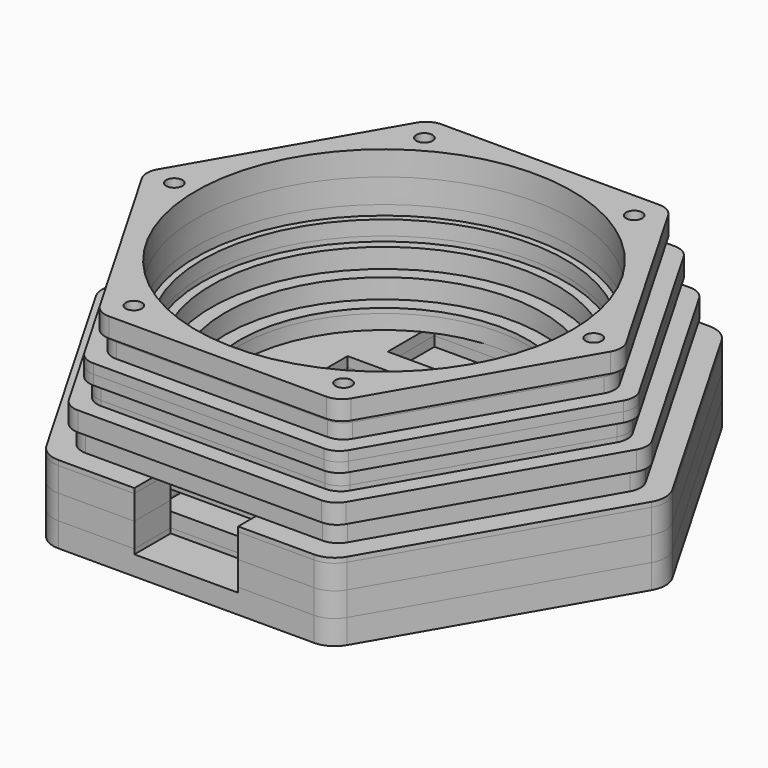
from build123d import *

# Parameters (mm, degrees)
BOX_BOTTOM_HALF_3_W     = 88.762396
BOX_BOTTOM_HALF_3_H     = 78.210236
BOX_BOTTOM_HALF_3_DEPTH = 4.75
BOX_BOTTOM_HALF_1_W     = 88.762396
BOX_BOTTOM_HALF_1_H     = 78.210236
BOX_BOTTOM_HALF_1_DEPTH = 8.5
BOX_BOTTOM_HALF_0_W     = 88.762396
BOX_BOTTOM_HALF_0_H     = 78.210236
BOX_BOTTOM_HALF_0_DEPTH = 16
PAD_DEPTH               = 9
SKETCH001_W             = 26.1
SKETCH001_H             = 34.4
POCKET_DEPTH            = 3
SKETCH002_R             = 22.22
PAD001_DEPTH            = 3
SKETCH003_R             = 24.44
PAD002_DEPTH            = 3
SKETCH004_R             = 26.6
PAD003_DEPTH            = 3
SKETCH005_R             = 28
PAD004_DEPTH            = 3
SKETCH006_R             = 29
PAD005_DEPTH            = 3
SKETCH007_R             = 29
PAD006_DEPTH            = 3
SKETCH008_R             = 29
PAD007_DEPTH            = 3
SKETCH009_W             = 17
SKETCH009_H             = 24
POCKET001_DEPTH         = 3
SKETCH010_W             = 16
SKETCH010_H             = 9
POCKET002_DEPTH         = 7
SKETCH011_W             = 20
SKETCH011_H             = 9
POCKET003_DEPTH         = 3
SKETCH012_R             = 1.25
POCKET004_DEPTH         = 270.433943
POLARPATTERN_COUNT      = 6
SKETCH013_W             = 3
SKETCH013_H             = 38
POCKET005_DEPTH         = 3
SKETCH014_W             = 3
SKETCH014_H             = 6
POCKET006_DEPTH         = 6
SKETCH015_W             = 10.05
SKETCH015_H             = 6
POCKET007_DEPTH         = 3
FILLET_R                = 4
FILLET001_R             = 3
FILLET002_R             = 3
FILLET003_R             = 3
FILLET004_R             = 3
BOX_BOTTOM_HALF_4_W     = 88.762396
BOX_BOTTOM_HALF_4_H     = 78.210236
BOX_BOTTOM_HALF_4_DEPTH = 4.75
BOX_BOTTOM_HALF_5_W     = 83.071797
BOX_BOTTOM_HALF_5_H     = 73.014083
BOX_BOTTOM_HALF_5_DEPTH = 4.75
BOX_BOTTOM_HALF_2_W     = 83.071797
BOX_BOTTOM_HALF_2_H     = 73.014083
BOX_BOTTOM_HALF_2_DEPTH = 8.5
BOX_BOTTOM_HALF_6_W     = 79.071797
BOX_BOTTOM_HALF_6_H     = 69.549981
BOX_BOTTOM_HALF_6_DEPTH = 4.75


with BuildPart() as box_bottom_half_3_body:
    # box_bottom_half_3 → box_bottom_half_3 (new body)
    with BuildSketch(Plane(origin=(-44.381198, -39.105118, -1), x_dir=(1, 0, 0), z_dir=(0, 0, 1))):
        with Locations((44.381198, 39.105118)):
            Rectangle(BOX_BOTTOM_HALF_3_W, BOX_BOTTOM_HALF_3_H)
    extrude(amount=BOX_BOTTOM_HALF_3_DEPTH)


with BuildPart() as box_bottom_half_1_body:
    # box_bottom_half_1 → box_bottom_half_1 (new body)
    with BuildSketch(Plane(origin=(-44.381198, -39.105118, -1), x_dir=(1, 0, 0), z_dir=(0, 0, 1))):
        with Locations((44.381198, 39.105118)):
            Rectangle(BOX_BOTTOM_HALF_1_W, BOX_BOTTOM_HALF_1_H)
    extrude(amount=BOX_BOTTOM_HALF_1_DEPTH)


with BuildPart() as box_bottom_half_0_body:
    # box_bottom_half_0 → box_bottom_half_0 (new body)
    with BuildSketch(Plane(origin=(-44.381198, -39.105118, -1), x_dir=(1, 0, 0), z_dir=(0, 0, 1))):
        with Locations((44.381198, 39.105118)):
            Rectangle(BOX_BOTTOM_HALF_0_W, BOX_BOTTOM_HALF_0_H)
    extrude(amount=BOX_BOTTOM_HALF_0_DEPTH)


with BuildPart() as body:
    # Sketch → Pad (new body)
    with BuildSketch(Plane.XY):
        Polygon((44, 0), (22, 38.105118), (-22, 38.105118), (-44, 0), (-22, -38.105118), (22, -38.105118), align=None)
    extrude(amount=PAD_DEPTH)

    # Sketch001 (on Face8 of Pad) → Pocket (cut)
    with BuildSketch(Plane.XY.offset(9)):
        with Locations((0, -13.905118)):
            Rectangle(SKETCH001_W, SKETCH001_H)
    extrude(amount=-POCKET_DEPTH, mode=Mode.SUBTRACT)

    # Sketch002 (on Face5 of Pocket) → Pad001 (join)
    with BuildSketch(Plane.XY.offset(9)):
        Polygon((22, 38.105118), (-22, 38.105118), (-44, 0), (-22, -38.105118), (22, -38.105118), (44, 0), align=None)
        Circle(SKETCH002_R, mode=Mode.SUBTRACT)
    extrude(amount=PAD001_DEPTH)

    # Sketch003 (on Face14 of Pad001) → Pad002 (join)
    with BuildSketch(Plane.XY.offset(12)):
        Polygon((40, 0), (20, 34.641016), (-20, 34.641016), (-40, 0), (-20, -34.641016), (20, -34.641016), align=None)
        Circle(SKETCH003_R, mode=Mode.SUBTRACT)
    extrude(amount=PAD002_DEPTH)

    # Sketch004 (on Face21 of Pad002) → Pad003 (join)
    with BuildSketch(Plane.XY.offset(15)):
        Polygon((41, 0), (20.5, 35.507042), (-20.5, 35.507042), (-41, 0), (-20.5, -35.507042), (20.5, -35.507042), align=None)
        Circle(SKETCH004_R, mode=Mode.SUBTRACT)
    extrude(amount=PAD003_DEPTH)

    # Sketch005 (on Face28 of Pad003) → Pad004 (join)
    with BuildSketch(Plane.XY.offset(18)):
        Polygon((19, 32.908965), (-19, 32.908965), (-38, 0), (-19, -32.908965), (19, -32.908965), (38, 0), align=None)
        Circle(SKETCH005_R, mode=Mode.SUBTRACT)
    extrude(amount=PAD004_DEPTH)

    # Sketch006 (on Face35 of Pad004) → Pad005 (join)
    with BuildSketch(Plane.XY.offset(21)):
        Polygon((39, 0), (19.5, 33.774991), (-19.5, 33.774991), (-39, 0), (-19.5, -33.774991), (19.5, -33.774991), align=None)
        Circle(SKETCH006_R, mode=Mode.SUBTRACT)
    extrude(amount=PAD005_DEPTH)

    # Sketch007 (on Face42 of Pad005) → Pad006 (join)
    with BuildSketch(Plane.XY.offset(24)):
        Polygon((36, 0), (18, 31.176915), (-18, 31.176915), (-36, 0), (-18, -31.176915), (18, -31.176915), align=None)
        Circle(SKETCH007_R, mode=Mode.SUBTRACT)
    extrude(amount=PAD006_DEPTH)

    # Sketch008 (on Face49 of Pad006) → Pad007 (join)
    with BuildSketch(Plane.XY.offset(27)):
        Polygon((37, 0), (18.5, 32.04294), (-18.5, 32.04294), (-37, 0), (-18.5, -32.04294), (18.5, -32.04294), align=None)
        Circle(SKETCH008_R, mode=Mode.SUBTRACT)
    extrude(amount=PAD007_DEPTH)

    # Sketch009 (on Face74 of Pad007) → Pocket001 (cut)
    with BuildSketch(Plane.XY.offset(6)):
        with Locations((0, -8.705118)):
            Rectangle(SKETCH009_W, SKETCH009_H)
    extrude(amount=-POCKET001_DEPTH, mode=Mode.SUBTRACT)

    # Sketch010 (on Face12 of Pocket001) → Pocket002 (cut)
    with BuildSketch(Plane.XZ.offset(38.105118)):
        with Locations((0, 7.5)):
            Rectangle(SKETCH010_W, SKETCH010_H)
    extrude(amount=-POCKET002_DEPTH, mode=Mode.SUBTRACT)

    # Sketch011 (on Face40 of Pocket002) → Pocket003 (cut)
    with BuildSketch(Plane.XY.offset(9)):
        with Locations((0, 17.72)):
            Rectangle(SKETCH011_W, SKETCH011_H)
    extrude(amount=-POCKET003_DEPTH, mode=Mode.SUBTRACT)

    # Sketch012 (on Face93 of Pocket003) → Pocket004 (cut, through all)
    with BuildSketch(Plane.XY.offset(30)):
        with Locations((-32.33, 0)):
            Circle(SKETCH012_R)
    pocket004 = extrude(amount=-POCKET004_DEPTH, mode=Mode.SUBTRACT)

    # PolarPattern: Pocket004 ×6 about axis
    polarpattern_axis = Axis((0, 0, 30), (0, 0, 1))
    for i in range(1, POLARPATTERN_COUNT):
        add(pocket004.rotate(polarpattern_axis, i * 360 / POLARPATTERN_COUNT), mode=Mode.SUBTRACT)

    # Sketch013 (on Face45 of PolarPattern) → Pocket005 (cut)
    with BuildSketch(Plane.XY.offset(6)):
        with Locations((-11.55, -12.105118)):
            Rectangle(SKETCH013_W, SKETCH013_H)
    extrude(amount=-POCKET005_DEPTH, mode=Mode.SUBTRACT)

    # Sketch014 (on Face58 of Pocket005) → Pocket006 (cut)
    with BuildSketch(Plane.XY.offset(9)):
        with Locations((-11.55, 6.294882)):
            Rectangle(SKETCH014_W, SKETCH014_H)
    extrude(amount=-POCKET006_DEPTH, mode=Mode.SUBTRACT)

    # Sketch015 (on Face58 of Pocket006) → Pocket007 (cut)
    with BuildSketch(Plane.XY.offset(9)):
        with Locations((-5.025, 6.294882)):
            Rectangle(SKETCH015_W, SKETCH015_H)
    extrude(amount=-POCKET007_DEPTH, mode=Mode.SUBTRACT)

    # Fillet
    fillet_edges = [body.edges().sort_by_distance(p)[0] for p in [
        (22, -38.105118, 4.5),
        (44, 0, 4.5),
        (22, 38.105118, 4.5),
        (-22, 38.105118, 4.5),
        (-44, 0, 4.5),
        (-22, -38.105118, 4.5),
    ]]
    fillet(fillet_edges, radius=FILLET_R)

    # Fillet001
    fillet001_edges = [body.edges().sort_by_distance(p)[0] for p in [
        (20.5, -35.507042, 16.5),
        (41, 0, 16.5),
        (20.5, 35.507042, 16.5),
        (-20.5, 35.507042, 16.5),
        (-41, 0, 16.5),
        (-20.5, -35.507042, 16.5),
    ]]
    fillet(fillet001_edges, radius=FILLET001_R)

    # Fillet002
    fillet002_edges = [body.edges().sort_by_distance(p)[0] for p in [
        (19.5, -33.774991, 22.5),
        (-19.5, -33.774991, 22.5),
        (-39, 0, 22.5),
        (-19.5, 33.774991, 22.5),
        (19.5, 33.774991, 22.5),
        (39, 0, 22.5),
    ]]
    fillet(fillet002_edges, radius=FILLET002_R)

    # Fillet003
    fillet003_edges = [body.edges().sort_by_distance(p)[0] for p in [
        (-18.5, -32.04294, 28.5),
        (18.5, -32.04294, 28.5),
        (37, 0, 28.5),
        (-37, 0, 28.5),
        (18.5, 32.04294, 28.5),
        (-18.5, 32.04294, 28.5),
    ]]
    fillet(fillet003_edges, radius=FILLET003_R)

    # Fillet004
    fillet004_edges = [body.edges().sort_by_distance(p)[0] for p in [
        (-20, -34.641016, 13.5),
        (20, -34.641016, 13.5),
        (40, 0, 13.5),
        (-40, 0, 13.5),
        (-38, 0, 19.5),
        (-19, -32.908965, 19.5),
        (19, -32.908965, 19.5),
        (38, 0, 19.5),
        (36, 0, 25.5),
        (18, -31.176915, 25.5),
        (-18, -31.176915, 25.5),
        (-36, 0, 25.5),
        (18, 31.176915, 25.5),
        (-18, 31.176915, 25.5),
        (-19, 32.908965, 19.5),
        (-20, 34.641016, 13.5),
        (20, 34.641016, 13.5),
        (19, 32.908965, 19.5),
    ]]
    fillet(fillet004_edges, radius=FILLET004_R)


with BuildPart() as bottom_half_0_body:
    # bottom_half_0 base: copy of Body
    add(body.part)

    # bottom_half_0: intersect box_bottom_half_0 body
    add(box_bottom_half_0_body.part, mode=Mode.INTERSECT)


with BuildPart() as bottom_half_1_body:
    # bottom_half_1 base: copy of bottom_half_0 body
    add(bottom_half_0_body.part)

    # bottom_half_1: intersect box_bottom_half_1 body
    add(box_bottom_half_1_body.part, mode=Mode.INTERSECT)


with BuildPart() as bottom_half_3_body:
    # bottom_half_3 base: copy of bottom_half_1 body
    add(bottom_half_1_body.part)

    # bottom_half_3: intersect box_bottom_half_3 body
    add(box_bottom_half_3_body.part, mode=Mode.INTERSECT)


with BuildPart() as top_half_3_body:
    # top_half_3 base: copy of bottom_half_1 body
    add(bottom_half_1_body.part)

    # top_half_3: cut box_bottom_half_3 body
    add(box_bottom_half_3_body.part, mode=Mode.SUBTRACT)


with BuildPart() as box_bottom_half_4_body:
    # box_bottom_half_4 → box_bottom_half_4 (new body)
    with BuildSketch(Plane(origin=(-44.381198, -39.105118, 6.5), x_dir=(1, 0, 0), z_dir=(0, 0, 1))):
        with Locations((44.381198, 39.105118)):
            Rectangle(BOX_BOTTOM_HALF_4_W, BOX_BOTTOM_HALF_4_H)
    extrude(amount=BOX_BOTTOM_HALF_4_DEPTH)


with BuildPart() as top_half_1_body:
    # top_half_1 base: copy of bottom_half_0 body
    add(bottom_half_0_body.part)

    # top_half_1: cut box_bottom_half_1 body
    add(box_bottom_half_1_body.part, mode=Mode.SUBTRACT)


with BuildPart() as bottom_half_4_body:
    # bottom_half_4 base: copy of top_half_1 body
    add(top_half_1_body.part)

    # bottom_half_4: intersect box_bottom_half_4 body
    add(box_bottom_half_4_body.part, mode=Mode.INTERSECT)


with BuildPart() as top_half_4_body:
    # top_half_4 base: copy of top_half_1 body
    add(top_half_1_body.part)

    # top_half_4: cut box_bottom_half_4 body
    add(box_bottom_half_4_body.part, mode=Mode.SUBTRACT)


with BuildPart() as box_bottom_half_5_body:
    # box_bottom_half_5 → box_bottom_half_5 (new body)
    with BuildSketch(Plane(origin=(-41.535898, -36.507042, 14), x_dir=(1, 0, 0), z_dir=(0, 0, 1))):
        with Locations((41.535898, 36.507041)):
            Rectangle(BOX_BOTTOM_HALF_5_W, BOX_BOTTOM_HALF_5_H)
    extrude(amount=BOX_BOTTOM_HALF_5_DEPTH)


with BuildPart() as box_bottom_half_2_body:
    # box_bottom_half_2 → box_bottom_half_2 (new body)
    with BuildSketch(Plane(origin=(-41.535898, -36.507042, 14), x_dir=(1, 0, 0), z_dir=(0, 0, 1))):
        with Locations((41.535898, 36.507041)):
            Rectangle(BOX_BOTTOM_HALF_2_W, BOX_BOTTOM_HALF_2_H)
    extrude(amount=BOX_BOTTOM_HALF_2_DEPTH)


with BuildPart() as top_half_0_body:
    # top_half_0 base: copy of Body
    add(body.part)

    # top_half_0: cut box_bottom_half_0 body
    add(box_bottom_half_0_body.part, mode=Mode.SUBTRACT)


with BuildPart() as bottom_half_2_body:
    # bottom_half_2 base: copy of top_half_0 body
    add(top_half_0_body.part)

    # bottom_half_2: intersect box_bottom_half_2 body
    add(box_bottom_half_2_body.part, mode=Mode.INTERSECT)


with BuildPart() as bottom_half_5_body:
    # bottom_half_5 base: copy of bottom_half_2 body
    add(bottom_half_2_body.part)

    # bottom_half_5: intersect box_bottom_half_5 body
    add(box_bottom_half_5_body.part, mode=Mode.INTERSECT)


with BuildPart() as top_half_5_body:
    # top_half_5 base: copy of bottom_half_2 body
    add(bottom_half_2_body.part)

    # top_half_5: cut box_bottom_half_5 body
    add(box_bottom_half_5_body.part, mode=Mode.SUBTRACT)


with BuildPart() as box_bottom_half_6_body:
    # box_bottom_half_6 → box_bottom_half_6 (new body)
    with BuildSketch(Plane(origin=(-39.535898, -34.774991, 21.5), x_dir=(1, 0, 0), z_dir=(0, 0, 1))):
        with Locations((39.535898, 34.774991)):
            Rectangle(BOX_BOTTOM_HALF_6_W, BOX_BOTTOM_HALF_6_H)
    extrude(amount=BOX_BOTTOM_HALF_6_DEPTH)


with BuildPart() as top_half_2_body:
    # top_half_2 base: copy of top_half_0 body
    add(top_half_0_body.part)

    # top_half_2: cut box_bottom_half_2 body
    add(box_bottom_half_2_body.part, mode=Mode.SUBTRACT)


with BuildPart() as bottom_half_6_body:
    # bottom_half_6 base: copy of top_half_2 body
    add(top_half_2_body.part)

    # bottom_half_6: intersect box_bottom_half_6 body
    add(box_bottom_half_6_body.part, mode=Mode.INTERSECT)


with BuildPart() as top_half_6_body:
    # top_half_6 base: copy of top_half_2 body
    add(top_half_2_body.part)

    # top_half_6: cut box_bottom_half_6 body
    add(box_bottom_half_6_body.part, mode=Mode.SUBTRACT)


solid = Compound([bottom_half_3_body.part, top_half_3_body.part, bottom_half_4_body.part, top_half_4_body.part, bottom_half_5_body.part, top_half_5_body.part, bottom_half_6_body.part, top_half_6_body.part])
